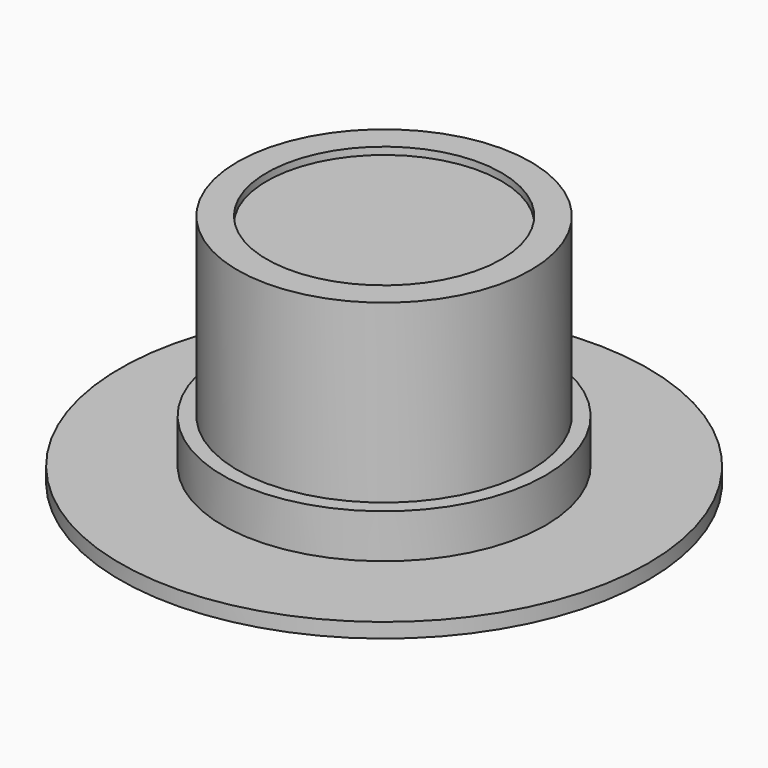
from build123d import *

# Parameters (mm, degrees)
F0_R      = 9
F1_DEPTH  = 0.5
F2_R      = 5
F3_DEPTH  = 8
F4_R      = 2.46
F5_DEPTH  = 6
F6_R      = 5
F7_DEPTH  = 0.5
F8_R      = 5.5
F9_DEPTH  = 1.5
F10_R     = 4
F11_DEPTH = 0.25


with BuildPart() as f1:
    # F0 (on Top) → F1 (new body)
    with BuildSketch(Plane.XY):
        Circle(F0_R)
    extrude(amount=F1_DEPTH)

    # F2 (on face) → F3 (join)
    with BuildSketch(Plane.XY.offset(0.5)):
        Circle(F2_R)
    extrude(amount=F3_DEPTH)

    # F4 (on face) → F5 (cut)
    with BuildSketch(Plane(origin=(0, 0, 0), x_dir=(1, 0, 0), z_dir=(0, 0, -1))):
        Circle(F4_R)
    extrude(amount=-F5_DEPTH, mode=Mode.SUBTRACT)

    # F6 (on face) → F7 (cut)
    with BuildSketch(Plane.XY.offset(8.5)):
        Circle(F6_R)
    extrude(amount=-F7_DEPTH, mode=Mode.SUBTRACT)

    # F8 (on face) → F9 (join)
    with BuildSketch(Plane.XY.offset(0.5)):
        Circle(F8_R)
    extrude(amount=F9_DEPTH)

    # F10 (on face) → F11 (cut)
    with BuildSketch(Plane.XY.offset(8)):
        Circle(F10_R)
    extrude(amount=-F11_DEPTH, mode=Mode.SUBTRACT)


solid = f1.part
